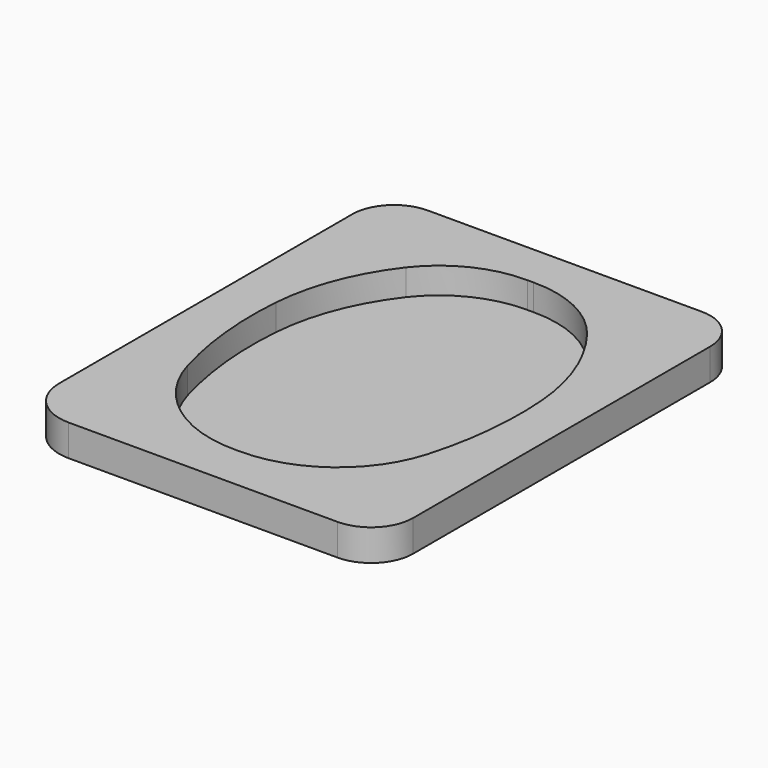
from build123d import *

# Parameters (mm, degrees)
PAD_DEPTH    = 6
POCKET_DEPTH = 5


with BuildPart() as part:
    # Sketch004 → Pad (new body)
    with BuildSketch(Plane.XY):
        with BuildLine():
            Line((-34.247254, 29.142098), (-34.247254, -40.731934))
            ThreePointArc((-34.247254, -40.731934), (-31.611215, -47.095895), (-25.247254, -49.731934))
            Line((-25.247254, -49.731934), (26.073956, -49.731934))
            ThreePointArc((26.073956, -49.731934), (31.73081, -47.388788), (34.073956, -41.731934))
            Line((34.073956, -41.731934), (34.073956, 29.142098))
            ThreePointArc((34.073956, 29.142098), (31.73081, 34.798952), (26.073956, 37.142098))
            Line((26.073956, 37.142098), (-26.247254, 37.142098))
            ThreePointArc((-26.247254, 37.142098), (-31.904109, 34.798952), (-34.247254, 29.142098))
        make_face()
    extrude(amount=PAD_DEPTH)

    # Sketch → Pocket (cut)
    with BuildSketch(Plane.XY.offset(6)):
        with BuildLine():
            ThreePointArc((0.2524, -41.074003), (14.410312, -36.50526), (22.890576, -24.282125))
            ThreePointArc((22.890576, -24.282125), (25.200826, -12.310293), (25.333783, -0.118314))
            ThreePointArc((25.333783, -0.118314), (22.825754, 10.910473), (17.275703, 20.765487))
            ThreePointArc((17.275703, 20.765487), (9.874199, 26.772272), (0.569118, 28.840892))
            ThreePointArc((0.55, 28.840771), (0.559559, 28.840801), (0.569118, 28.840892))
            Line((0.55, 28.840771), (0, 28.840771))
            Line((-0.55, 28.840771), (0, 28.840771))
            ThreePointArc((-0.569118, 28.840892), (-0.559559, 28.840801), (-0.55, 28.840771))
            ThreePointArc((-0.569118, 28.840892), (-9.874199, 26.772272), (-17.275703, 20.765487))
            ThreePointArc((-17.275703, 20.765487), (-22.825754, 10.910473), (-25.333783, -0.118314))
            ThreePointArc((-25.333783, -0.118314), (-25.200826, -12.310293), (-22.890576, -24.282125))
            ThreePointArc((-22.890576, -24.282125), (-14.410312, -36.50526), (-0.2524, -41.074003))
            ThreePointArc((-0.231547, -41.073858), (-0.241974, -41.073894), (-0.2524, -41.074003))
            Line((-0.231547, -41.073858), (0, -41.073858))
            Line((0.231547, -41.073858), (0, -41.073858))
            ThreePointArc((0.2524, -41.074003), (0.241974, -41.073894), (0.231547, -41.073858))
        make_face()
    extrude(amount=-POCKET_DEPTH, mode=Mode.SUBTRACT)


solid = part.part
